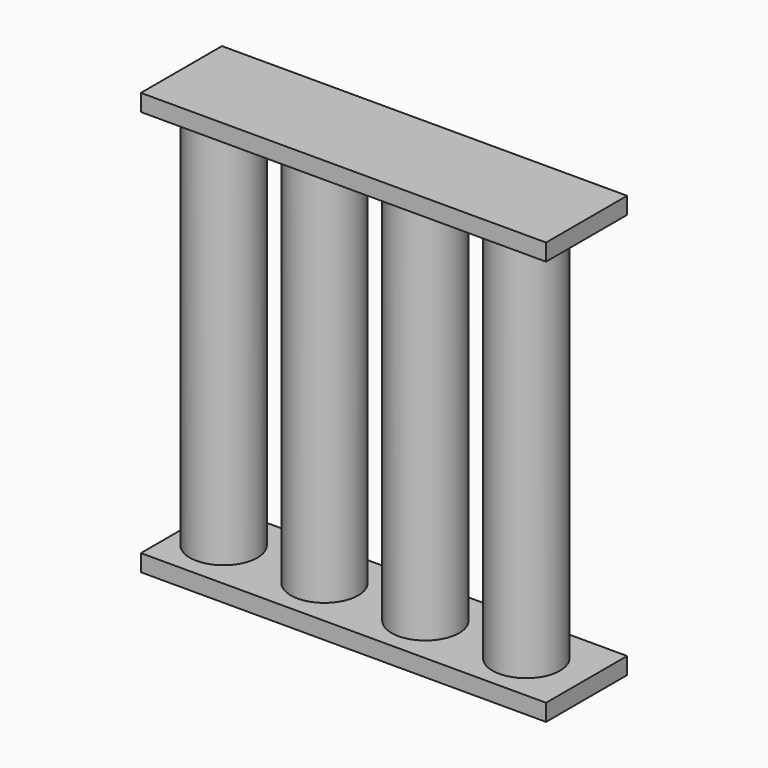
from build123d import *

# Parameters (mm, degrees)
F0_W     = 609.6
F0_H     = 152.4
F1_DEPTH = 25.4
F2_R     = 50.8
F3_DEPTH = 609.6
F4_W     = 609.6
F4_H     = 152.4
F4_R     = 50.8
F5_DEPTH = 25.4


with BuildPart() as f1:
    # F0 (on Top) → F1 (new body)
    with BuildSketch(Plane.XY):
        with Locations((-0.350654, 38.133061)):
            Rectangle(F0_W, F0_H)
    extrude(amount=F1_DEPTH)

    # F2 (on face) → F3 (join)
    with BuildSketch(Plane.XY.offset(25.4)):
        with Locations((215.54353, 35.826997)):
            Circle(F2_R)
        with Locations((63.145469, 36.595685)):
            Circle(F2_R)
        with Locations((-89.252593, 37.364373)):
            Circle(F2_R)
        with Locations((-241.650654, 38.133061)):
            Circle(F2_R)
    extrude(amount=F3_DEPTH)

    # F4 (on face) → F5 (join)
    with BuildSketch(Plane.XY.offset(635)):
        with Locations((-0.350654, 38.133061)):
            Rectangle(F4_W, F4_H)
        with Locations((-241.650654, 38.133061)):
            Circle(F4_R, mode=Mode.SUBTRACT)
    extrude(amount=-F5_DEPTH)


solid = f1.part
